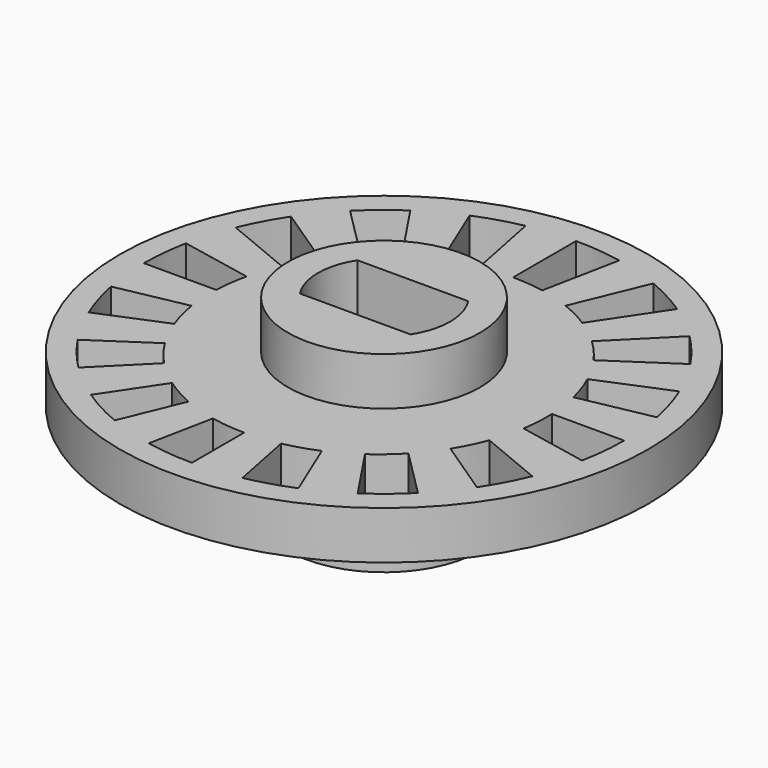
from build123d import *

# Parameters (mm, degrees)
F0_R     = 4
F1_DEPTH = 4
F0_R_2   = 11
F2_DEPTH = 2


with BuildPart() as f1:
    # F0 (on Top) → F1 (new body, symmetric)
    with BuildSketch(Plane.XY):
        Circle(F0_R)
        with BuildLine():
            ThreePointArc((-2.304886, -1.5), (-2.75, 0), (-2.304886, 1.5))
            Line((-2.304886, 1.5), (2.304886, 1.5))
            ThreePointArc((2.304886, 1.5), (2.75, 0), (2.304886, -1.5))
            Line((2.304886, -1.5), (-2.304886, -1.5))
        make_face(mode=Mode.SUBTRACT)
    extrude(amount=F1_DEPTH, both=True)

    # F0 (on Top) → F2 (join)
    with BuildSketch(Plane.XY):
        Circle(F0_R_2)
        with BuildLine():
            Line((-8.314696, -5.555702), (-5.946591, -3.973385))
            ThreePointArc((-5.946591, -3.973385), (-5.545353, -4.552303), (-5.087967, -5.087967))
            Line((-5.087967, -5.087967), (-7.071068, -7.071068))
            ThreePointArc((-7.071068, -7.071068), (-7.730105, -6.343933), (-8.314696, -5.555702))
        make_face(mode=Mode.SUBTRACT)
        with BuildLine():
            ThreePointArc((0, -10), (-0.980171, -9.951847), (-1.950903, -9.807853))
            Line((-1.950903, -9.807853), (-1.419245, -7.135026))
            ThreePointArc((-1.419245, -7.135026), (-0.713336, -7.24397), (0, -7.280411))
            Line((0, -7.280411), (0, -10))
        make_face(mode=Mode.SUBTRACT)
        with BuildLine():
            Line((-5.555702, -8.314696), (-4.017561, -6.012706))
            ThreePointArc((-4.017561, -6.012706), (-3.41521, -6.390758), (-2.77761, -6.705743))
            Line((-2.77761, -6.705743), (-3.826834, -9.238795))
            ThreePointArc((-3.826834, -9.238795), (-4.713967, -8.819213), (-5.555702, -8.314696))
        make_face(mode=Mode.SUBTRACT)
        with BuildLine():
            Line((-9.807853, -1.950903), (-6.91385, -1.37525))
            ThreePointArc((-6.91385, -1.37525), (-6.771225, -2.055379), (-6.561866, -2.718014))
            Line((-6.561866, -2.718014), (-9.238795, -3.826834))
            ThreePointArc((-9.238795, -3.826834), (-9.569403, -2.902847), (-9.807853, -1.950903))
        make_face(mode=Mode.SUBTRACT)
        with BuildLine():
            Line((1.950903, -9.807853), (1.419245, -7.135026))
            ThreePointArc((1.419245, -7.135026), (2.109376, -6.95503), (2.77761, -6.705743))
            Line((2.77761, -6.705743), (3.826834, -9.238795))
            ThreePointArc((3.826834, -9.238795), (2.902847, -9.569403), (1.950903, -9.807853))
        make_face(mode=Mode.SUBTRACT)
        with BuildLine():
            Line((5.555702, -8.314696), (4.017561, -6.012706))
            ThreePointArc((4.017561, -6.012706), (4.576183, -5.577444), (5.087967, -5.087967))
            Line((5.087967, -5.087967), (7.071068, -7.071068))
            ThreePointArc((7.071068, -7.071068), (6.343933, -7.730105), (5.555702, -8.314696))
        make_face(mode=Mode.SUBTRACT)
        with BuildLine():
            Line((8.314696, -5.555702), (5.946591, -3.973385))
            ThreePointArc((5.946591, -3.973385), (6.285648, -3.361098), (6.561866, -2.718014))
            Line((6.561866, -2.718014), (9.238795, -3.826834))
            ThreePointArc((9.238795, -3.826834), (8.819213, -4.713967), (8.314696, -5.555702))
        make_face(mode=Mode.SUBTRACT)
        with BuildLine():
            Line((9.807853, -1.950903), (6.91385, -1.37525))
            ThreePointArc((6.91385, -1.37525), (6.988029, -0.689611), (6.994381, 0))
            Line((6.994381, 0), (10, 0))
            ThreePointArc((10, 0), (9.951847, -0.980171), (9.807853, -1.950903))
        make_face(mode=Mode.SUBTRACT)
        with BuildLine():
            Line((-9.807853, 1.950903), (-6.806542, 1.353905))
            ThreePointArc((-6.806542, 1.353905), (-6.933587, 0.681549), (-6.994381, 0))
            Line((-6.994381, 0), (-10, 0))
            ThreePointArc((-10, 0), (-9.951847, 0.980171), (-9.807853, 1.950903))
        make_face(mode=Mode.SUBTRACT)
        with BuildLine():
            Line((-8.314696, 5.555702), (-5.687525, 3.800283))
            ThreePointArc((-5.687525, 3.800283), (-6.053617, 3.234376), (-6.363586, 2.635884))
            Line((-6.363586, 2.635884), (-9.238795, 3.826834))
            ThreePointArc((-9.238795, 3.826834), (-8.819213, 4.713967), (-8.314696, 5.555702))
        make_face(mode=Mode.SUBTRACT)
        with BuildLine():
            Line((-5.555702, 8.314696), (-3.758495, 5.624986))
            ThreePointArc((-3.758495, 5.624986), (-4.302483, 5.241241), (-4.807556, 4.807556))
            Line((-4.807556, 4.807556), (-7.071068, 7.071068))
            ThreePointArc((-7.071068, 7.071068), (-6.343933, 7.730105), (-5.555702, 8.314696))
        make_face(mode=Mode.SUBTRACT)
        with BuildLine():
            Line((-1.950903, 9.807853), (-1.311936, 6.595549))
            ThreePointArc((-1.311936, 6.595549), (-1.954337, 6.441238), (-2.579329, 6.227051))
            Line((-2.579329, 6.227051), (-3.826834, 9.238795))
            ThreePointArc((-3.826834, 9.238795), (-2.902847, 9.569403), (-1.950903, 9.807853))
        make_face(mode=Mode.SUBTRACT)
        Circle(F0_R, mode=Mode.SUBTRACT)
        with BuildLine():
            Line((9.807853, 1.950903), (6.806542, 1.353905))
            ThreePointArc((6.806542, 1.353905), (6.616187, 2.005648), (6.363586, 2.635884))
            Line((6.363586, 2.635884), (9.238795, 3.826834))
            ThreePointArc((9.238795, 3.826834), (9.569403, 2.902847), (9.807853, 1.950903))
        make_face(mode=Mode.SUBTRACT)
        with BuildLine():
            Line((8.314696, 5.555702), (5.687525, 3.800283))
            ThreePointArc((5.687525, 3.800283), (5.271653, 4.324985), (4.807556, 4.807556))
            Line((4.807556, 4.807556), (7.071068, 7.071068))
            ThreePointArc((7.071068, 7.071068), (7.730105, 6.343933), (8.314696, 5.555702))
        make_face(mode=Mode.SUBTRACT)
        with BuildLine():
            Line((5.555702, 8.314696), (3.758495, 5.624986))
            ThreePointArc((3.758495, 5.624986), (3.183178, 5.953959), (2.579329, 6.227051))
            Line((2.579329, 6.227051), (3.826834, 9.238795))
            ThreePointArc((3.826834, 9.238795), (4.713967, 8.819213), (5.555702, 8.314696))
        make_face(mode=Mode.SUBTRACT)
        with BuildLine():
            Line((1.950903, 9.807853), (1.311936, 6.595549))
            ThreePointArc((1.311936, 6.595549), (0.658893, 6.68851), (0, 6.719589))
            Line((0, 6.719589), (0, 10))
            ThreePointArc((0, 10), (0.980171, 9.951847), (1.950903, 9.807853))
        make_face(mode=Mode.SUBTRACT)
    extrude(amount=F2_DEPTH)


solid = f1.part
